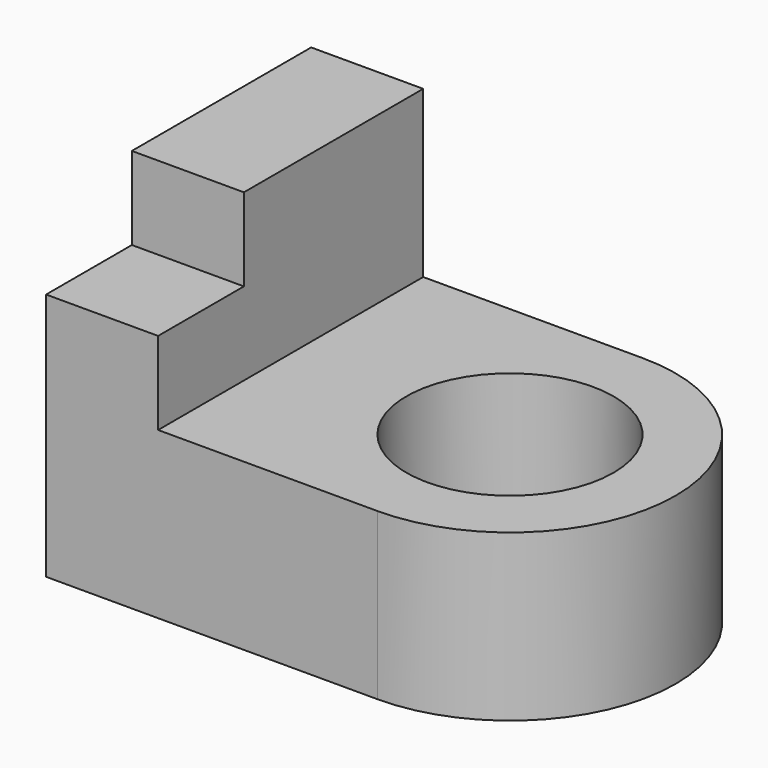
from build123d import *

# Parameters (mm, degrees)
F0_W     = 50.8
F0_H     = 50.8
F1_DEPTH = 25.4
F2_W     = 25.4
F2_H     = 25.4
F4_R     = 15.875
F5_DEPTH = 25.401
F6_W     = 17.175864
F6_H     = 50.8
F7_DEPTH = 12.7
F8_W     = 17.175864
F8_H     = 34.362019
F9_DEPTH = 12.7


with BuildPart() as f1:
    # F0 (on Top) → F1 (new body)
    with BuildSketch(Plane.XY):
        Rectangle(F0_W, F0_H)
    extrude(amount=F1_DEPTH)

    # F2 (on face) → F3 (revolve)
    with BuildSketch(Plane.YZ.offset(25.4)):
        with Locations((-12.7, 12.7)):
            Rectangle(F2_W, F2_H)
    revolve(axis=Axis((25.4, 0, 12.7), (0, 0, 1)))

    # F4 (on face) → F5 (cut, through all)
    with BuildSketch(Plane(origin=(0, 0, 0), x_dir=(1, 0, 0), z_dir=(0, 0, -1))):
        with Locations((25.4, 0)):
            Circle(F4_R)
    extrude(amount=-F5_DEPTH, mode=Mode.SUBTRACT)

    # F6 (on face) → F7 (join)
    with BuildSketch(Plane.XY.offset(25.4)):
        with Locations((-16.812068, 0)):
            Rectangle(F6_W, F6_H)
    extrude(amount=F7_DEPTH)

    # F8 (on face) → F9 (join)
    with BuildSketch(Plane.XY.offset(38.1)):
        with Locations((-16.812068, 8.218991)):
            Rectangle(F8_W, F8_H)
    extrude(amount=F9_DEPTH)


solid = f1.part
